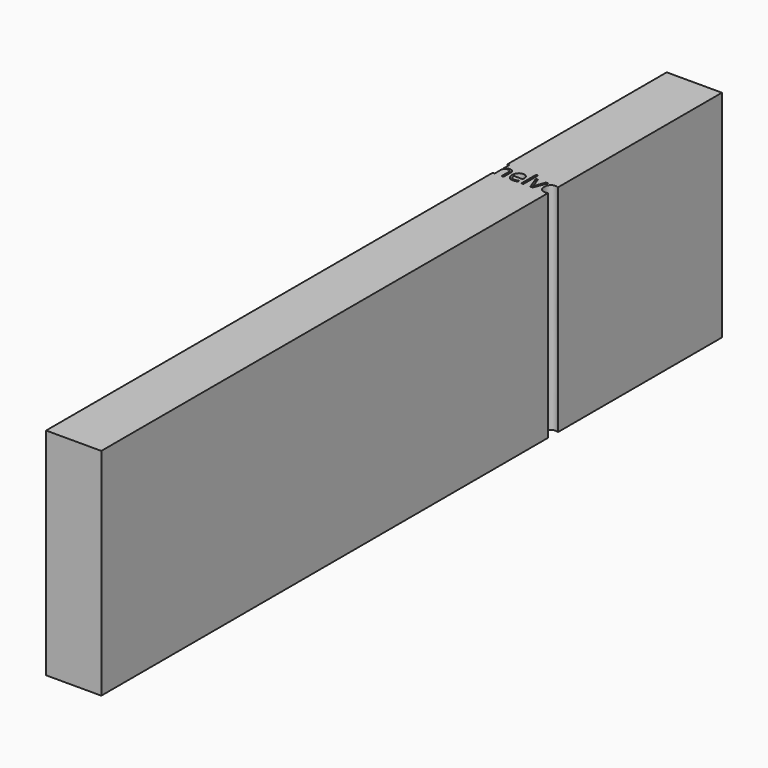
from build123d import *

# Parameters (mm, degrees)
F0_W     = 13.9856069313
F0_H     = 131.0443285297
F1_DEPTH = 1524


with BuildPart() as f1:
    # F0 (on Top) → F1 (new body)
    with BuildSketch(Plane.XY):
        with BuildLine():
            Line((195.2625, 1291.9325532706), (195.2625, 2743.2))
            Line((195.2625, 2743.2), (-195.2625, 2743.2))
            Line((-195.2625, 2743.2), (-195.2625, 1335.8684377216))
            Line((-195.2625, 1335.8684377216), (-181.3278401556, 1335.8684377216))
            Line((-181.3278401556, 1335.8684377216), (-181.3278401556, 1296.2021305869))
            add(Edge.make_bspline(
                [(-181.3278401556, 1296.2021305869), (-181.3278401556, 1289.0341701944), (-182.0015206436, 1284.3184067783)],
                knots=[0, 0, 0, 1, 1, 1], degree=2))
            Line((-182.0015206436, 1284.3184067783), (-181.1661568385, 1284.3184067783))
            add(Edge.make_bspline(
                [(-181.1661568385, 1284.3184067783), (-177.0432322518, 1290.9743699999), (-169.4171691274, 1294.8008751719)],
                knots=[0, 0, 0, 1, 1, 1], degree=2))
            add(Edge.make_bspline(
                [(-169.4171691274, 1294.8008751719), (-161.791106003, 1298.6273803438), (-152.0362125365, 1298.6273803438)],
                knots=[0, 0, 0, 1, 1, 1], degree=2))
            add(Edge.make_bspline(
                [(-152.0362125365, 1298.6273803438), (-135.1133586774, 1298.6273803438), (-126.6384581381, 1290.5836353168)],
                knots=[0, 0, 0, 1, 1, 1], degree=2))
            add(Edge.make_bspline(
                [(-126.6384581381, 1290.5836353168), (-118.1635575988, 1282.5398902899), (-118.1635575988, 1265.0241976013)],
                knots=[0, 0, 0, 1, 1, 1], degree=2))
            Line((-118.1635575988, 1265.0241976013), (-118.1635575988, 1204.8241091918))
            Line((-118.1635575988, 1204.8241091918), (-132.1491645301, 1204.8241091918))
            Line((-132.1491645301, 1204.8241091918), (-132.1491645301, 1264.53914765))
            add(Edge.make_bspline(
                [(-132.1491645301, 1264.53914765), (-132.1491645301, 1275.8030854097), (-137.2826098488, 1281.3676862407)],
                knots=[0, 0, 0, 1, 1, 1], degree=2))
            add(Edge.make_bspline(
                [(-137.2826098488, 1281.3676862407), (-142.4160551675, 1286.9322870718), (-153.3835735125, 1286.9322870718)],
                knots=[0, 0, 0, 1, 1, 1], degree=2))
            add(Edge.make_bspline(
                [(-153.3835735125, 1286.9322870718), (-167.9350720538, 1286.9322870718), (-174.6314561047, 1279.0098045327)],
                knots=[0, 0, 0, 1, 1, 1], degree=2))
            add(Edge.make_bspline(
                [(-174.6314561047, 1279.0098045327), (-181.3278401556, 1271.0873219935), (-181.3278401556, 1253.0865793536)],
                knots=[0, 0, 0, 1, 1, 1], degree=2))
            Line((-181.3278401556, 1253.0865793536), (-181.3278401556, 1204.8241091918))
            Line((-181.3278401556, 1204.8241091918), (-195.2625, 1204.8241091918))
            Line((-195.2625, 1204.8241091918), (-195.2625, -2743.2))
            Line((-195.2625, -2743.2), (195.2625, -2743.2))
            Line((195.2625, -2743.2), (195.2625, 1205.2435765716))
            add(Edge.make_bspline(
                [(195.2625, 1205.2435765716), (193.7452301259, 1204.8411370421), (192.2684112811, 1204.5276897771)],
                knots=[0.7763096851, 0.7763096851, 0.7763096851, 1, 1, 1], degree=2))
            add(Edge.make_bspline(
                [(192.2684112811, 1204.5276897771), (185.6663424985, 1203.126434362), (176.3156573247, 1203.126434362)],
                knots=[0, 0, 0, 1, 1, 1], degree=2))
            add(Edge.make_bspline(
                [(176.3156573247, 1203.126434362), (155.8627177084, 1203.126434362), (144.019414729, 1215.6029970002)],
                knots=[0, 0, 0, 1, 1, 1], degree=2))
            add(Edge.make_bspline(
                [(144.019414729, 1215.6029970002), (132.1761117496, 1228.0795596383), (132.1761117496, 1250.2032268649)],
                knots=[0, 0, 0, 1, 1, 1], degree=2))
            add(Edge.make_bspline(
                [(132.1761117496, 1250.2032268649), (132.1761117496, 1272.5424718477), (143.1705773141, 1285.6792413641)],
                knots=[0, 0, 0, 1, 1, 1], degree=2))
            add(Edge.make_bspline(
                [(143.1705773141, 1285.6792413641), (154.1650428786, 1298.8160108805), (172.7047299089, 1298.8160108805)],
                knots=[0, 0, 0, 1, 1, 1], degree=2))
            add(Edge.make_bspline(
                [(172.7047299089, 1298.8160108805), (186.1616157094, 1298.8160108805), (195.2625, 1291.9325532706)],
                knots=[0, 0, 0, 0.7766397836, 0.7766397836, 0.7766397836], degree=2))
        make_face()
        with BuildLine():
            add(Edge.make_bspline(
                [(-34.5193882062, 1204.5276897771), (-41.1214569888, 1203.126434362), (-50.4721421625, 1203.126434362)],
                knots=[0, 0, 0, 1, 1, 1], degree=2))
            add(Edge.make_bspline(
                [(-50.4721421625, 1203.126434362), (-70.9250817788, 1203.126434362), (-82.7683847582, 1215.6029970002)],
                knots=[0, 0, 0, 1, 1, 1], degree=2))
            add(Edge.make_bspline(
                [(-82.7683847582, 1215.6029970002), (-94.6116877376, 1228.0795596383), (-94.6116877376, 1250.2032268649)],
                knots=[0, 0, 0, 1, 1, 1], degree=2))
            add(Edge.make_bspline(
                [(-94.6116877376, 1250.2032268649), (-94.6116877376, 1272.5424718477), (-83.6172221731, 1285.6792413641)],
                knots=[0, 0, 0, 1, 1, 1], degree=2))
            add(Edge.make_bspline(
                [(-83.6172221731, 1285.6792413641), (-72.6227566086, 1298.8160108805), (-54.0830695783, 1298.8160108805)],
                knots=[0, 0, 0, 1, 1, 1], degree=2))
            add(Edge.make_bspline(
                [(-54.0830695783, 1298.8160108805), (-36.7560074264, 1298.8160108805), (-26.6508001061, 1287.4038634134)],
                knots=[0, 0, 0, 1, 1, 1], degree=2))
            add(Edge.make_bspline(
                [(-26.6508001061, 1287.4038634134), (-16.5455927858, 1275.9917159463), (-16.5455927858, 1257.2903455989)],
                knots=[0, 0, 0, 1, 1, 1], degree=2))
            Line((-16.5455927858, 1257.2903455989), (-16.5455927858, 1248.451657596))
            Line((-16.5455927858, 1248.451657596), (-80.1140836354, 1248.451657596))
            add(Edge.make_bspline(
                [(-80.1140836354, 1248.451657596), (-79.6829281231, 1232.202484225), (-71.8951816815, 1223.7814781247)],
                knots=[0, 0, 0, 1, 1, 1], degree=2))
            add(Edge.make_bspline(
                [(-71.8951816815, 1223.7814781247), (-64.10743524, 1215.3604720245), (-49.9601449916, 1215.3604720245)],
                knots=[0, 0, 0, 1, 1, 1], degree=2))
            add(Edge.make_bspline(
                [(-49.9601449916, 1215.3604720245), (-35.0583325966, 1215.3604720245), (-20.5068340553, 1221.5852797338)],
                knots=[0, 0, 0, 1, 1, 1], degree=2))
            Line((-20.5068340553, 1221.5852797338), (-20.5068340553, 1209.1087170956))
            add(Edge.make_bspline(
                [(-20.5068340553, 1209.1087170956), (-27.9173194236, 1205.9289451922), (-34.5193882062, 1204.5276897771)],
                knots=[0, 0, 0, 1, 1, 1], degree=2))
        make_face(mode=Mode.SUBTRACT)
        with Locations((14.2954999558, 1270.3462734567)):
            Rectangle(F0_W, F0_H, mode=Mode.SUBTRACT)
        with BuildLine():
            Line((87.4706745646, 1204.8241091918), (71.140659535, 1204.8241091918))
            Line((71.140659535, 1204.8241091918), (36.1092741579, 1297.1183360506))
            Line((36.1092741579, 1297.1183360506), (51.0919282115, 1297.1183360506))
            Line((51.0919282115, 1297.1183360506), (70.9789762178, 1242.3885332039))
            add(Edge.make_bspline(
                [(70.9789762178, 1242.3885332039), (77.715781098, 1223.1751656855), (78.901458757, 1217.4623551471)],
                knots=[0, 0, 0, 1, 1, 1], degree=2))
            Line((78.901458757, 1217.4623551471), (79.575139245, 1217.4623551471))
            add(Edge.make_bspline(
                [(79.575139245, 1217.4623551471), (80.4913447087, 1221.908646368), (85.422685881, 1235.9346741286)],
                knots=[0, 0, 0, 1, 1, 1], degree=2))
            add(Edge.make_bspline(
                [(85.422685881, 1235.9346741286), (90.3540270533, 1249.9607018892), (107.5194058881, 1297.1183360506)],
                knots=[0, 0, 0, 1, 1, 1], degree=2))
            Line((107.5194058881, 1297.1183360506), (122.5020599416, 1297.1183360506))
            Line((122.5020599416, 1297.1183360506), (87.4706745646, 1204.8241091918))
        make_face(mode=Mode.SUBTRACT)
    extrude(amount=F1_DEPTH)


solid = f1.part
